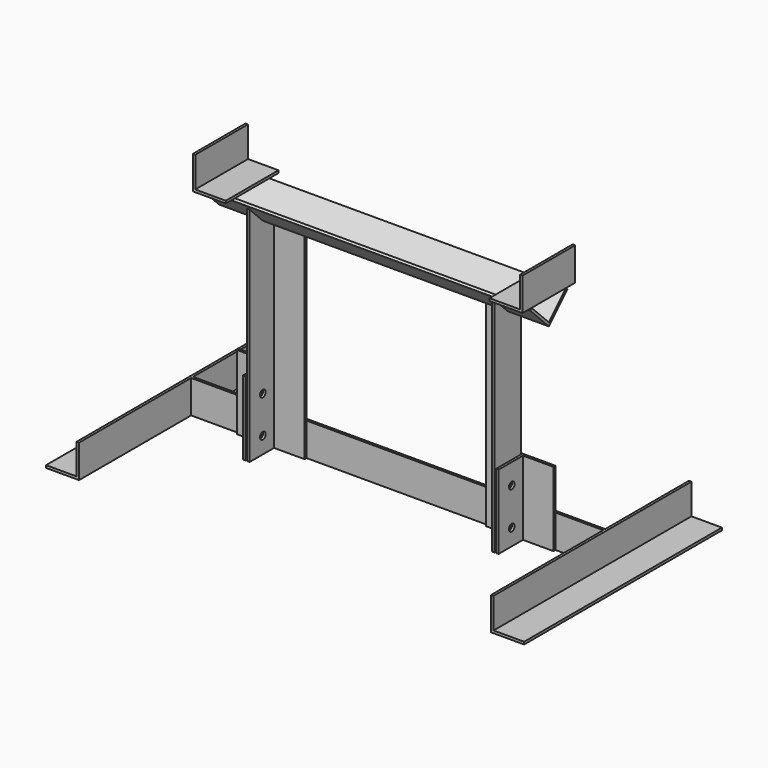
from build123d import *

# Parameters (mm, degrees)
F1_DEPTH       = 200
F1_DEPTH_BACK  = 200
F3_DEPTH       = 40
F3_DEPTH_BACK  = 40
F7_DEPTH       = 250
F7_DEPTH_BACK  = 250
F9_DEPTH       = 150
F9_DEPTH_BACK  = 150
F11_DEPTH      = 90
F12_R          = 4.25
F13_DEPTH      = 155
F13_DEPTH_BACK = 155


with BuildPart() as f1:
    # F0 (on Right) → F1 (new body, two sides)
    with BuildSketch(Plane.YZ) as f1_sk:
        Polygon((-26.1629509039, 280), (-28.2842712475, 277.8786796564), (0, 249.594408409), (28.2842712475, 277.8786796564), (26.1629509039, 280), (0, 253.8370490961), align=None)
    extrude(amount=F1_DEPTH)
    extrude(f1_sk.sketch, amount=-F1_DEPTH_BACK)


with BuildPart() as f3:
    # F2 (on Front) → F3 (new body, two sides)
    with BuildSketch(Plane.XZ) as f3_sk:
        Polygon((-200, 280), (-160, 280), (-160, 283), (-197, 283), (-197, 320), (-200, 320), align=None)
    extrude(amount=F3_DEPTH)
    extrude(f3_sk.sketch, amount=-F3_DEPTH_BACK)


with BuildPart() as f3b:
    # F2 (on Front) → F3, piece 2 (new body, two sides)
    with BuildSketch(Plane.XZ) as f3_2_sk:
        Polygon((160, 280), (200, 280), (200, 320), (197, 320), (197, 283), (160, 283), align=None)
    extrude(amount=F3_DEPTH)
    extrude(f3_2_sk.sketch, amount=-F3_DEPTH_BACK)


with BuildPart() as f5:
    # F4 (on Top) → F5 (new body, up to the next surface of F1)
    with BuildSketch(Plane.XY):
        Polygon((-150, 20), (-150, -20), (-147, -20), (-147, 17), (-110, 17), (-110, 20), align=None)
    extrude(until=Until.NEXT, target=f1.part)


with BuildPart() as f5b:
    # F4 (on Top) → F5, piece 2 (new body, up to the next surface of F1)
    with BuildSketch(Plane.XY):
        Polygon((150, 20), (110, 20), (110, 17), (147, 17), (147, -20), (150, -20), align=None)
    extrude(until=Until.NEXT, target=f1.part)


with BuildPart() as f7:
    # F6 (on Right) → F7 (new body, two sides)
    with BuildSketch(Plane.YZ) as f7_sk:
        Polygon((20, 40), (20, 0), (60, 0), (60, 3), (23, 3), (23, 40), align=None)
    extrude(amount=F7_DEPTH)
    extrude(f7_sk.sketch, amount=-F7_DEPTH_BACK)


with BuildPart() as f9:
    # F8 (on Front) → F9 (new body, two sides)
    with BuildSketch(Plane.XZ) as f9_sk:
        Polygon((-290, 0), (-250, 0), (-250, 40), (-253, 40), (-253, 3), (-290, 3), align=None)
    extrude(amount=F9_DEPTH)
    extrude(f9_sk.sketch, amount=-F9_DEPTH_BACK)


with BuildPart() as f9b:
    # F8 (on Front) → F9, piece 2 (new body, two sides)
    with BuildSketch(Plane.XZ) as f9_2_sk:
        Polygon((253, 40), (250, 40), (250, 0), (290, 0), (290, 3), (253, 3), align=None)
    extrude(amount=F9_DEPTH)
    extrude(f9_2_sk.sketch, amount=-F9_DEPTH_BACK)


with BuildPart() as f11:
    # F10 (on Top) → F11 (new body)
    with BuildSketch(Plane.XY):
        Polygon((-155, -20), (-152, -20), (-152, 20), (-192, 20), (-192, 17), (-155, 17), align=None)
    extrude(amount=F11_DEPTH)


with BuildPart() as f11b:
    # F10 (on Top) → F11, piece 2 (new body)
    with BuildSketch(Plane.XY):
        Polygon((192, 17), (192, 20), (152, 20), (152, -20), (155, -20), (155, 17), align=None)
    extrude(amount=F11_DEPTH)


with BuildPart() as f13_tool:
    # F12 (on Right) → F13 (new body, two sides)
    with BuildSketch(Plane.YZ) as f13_sk:
        with Locations((0, 65)):
            Circle(F12_R)
        with Locations((0, 20)):
            Circle(F12_R)
    extrude(amount=F13_DEPTH)
    extrude(f13_sk.sketch, amount=-F13_DEPTH_BACK)


with BuildPart() as f5_1:
    add(f5.part)

    # F13: cut by f13_tool
    add(f13_tool.part, mode=Mode.SUBTRACT)


with BuildPart() as f5b_1:
    add(f5b.part)

    # F13: cut by f13_tool
    add(f13_tool.part, mode=Mode.SUBTRACT)


with BuildPart() as f11_1:
    add(f11.part)

    # F13: cut by f13_tool
    add(f13_tool.part, mode=Mode.SUBTRACT)


with BuildPart() as f11b_1:
    add(f11b.part)

    # F13: cut by f13_tool
    add(f13_tool.part, mode=Mode.SUBTRACT)


solid = Compound([f1.part, f3.part, f3b.part, f7.part, f9.part, f9b.part, f5_1.part, f5b_1.part, f11_1.part, f11b_1.part])
